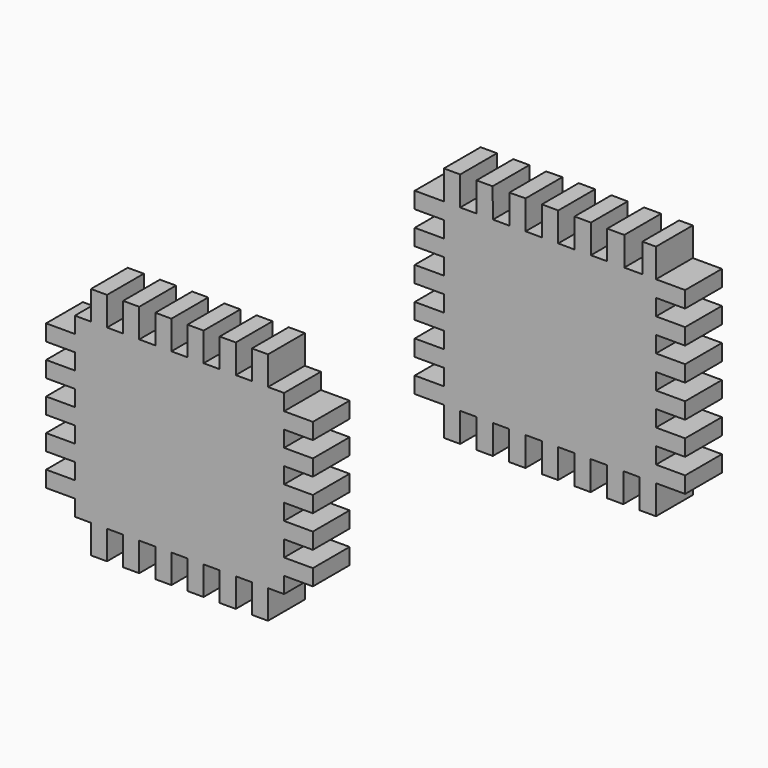
from build123d import *

# Parameters (mm, degrees)
F1_DEPTH = 10.16
F3_DEPTH = 10.16


with BuildPart() as f1:
    # F0 (on Front) → F1 (new body)
    with BuildSketch(Plane.XZ):
        Polygon((-7.246204, 25.127795), (-10.850636, 25.127795), (-10.942347, 31.578782), (-14.490504, 31.578782), (-14.490504, 25.127795), (-18.094936, 25.127795), (-18.094936, 31.55316), (-21.699369, 31.55316), (-21.699369, 25.127795), (-28.135855, 25.127795), (-28.135855, 21.523363), (-21.699369, 21.523363), (-21.699369, 17.91893), (-28.135855, 17.91893), (-28.135855, 14.314498), (-21.699369, 14.314498), (-21.699369, 10.710065), (-28.135855, 10.710065), (-28.135855, 7.105633), (-21.699369, 7.105633), (-21.699369, 3.5012), (-28.135855, 3.5012), (-28.135855, 0), (-21.699369, 0), (-21.699369, -3.604432), (-28.135855, -3.604432), (-28.135855, -7.208865), (-21.699369, -7.208865), (-21.699369, -10.813297), (-28.135855, -10.813297), (-28.135855, -14.41773), (-21.699369, -14.41773), (-21.699369, -20.854216), (-18.094936, -20.854216), (-18.094936, -14.41773), (-14.490504, -14.41773), (-14.490504, -20.854216), (-10.886071, -20.854216), (-10.886071, -14.41773), (-7.281639, -14.41773), (-7.281639, -20.854216), (-3.677206, -20.854216), (-3.677206, -14.41773), (-0.072774, -14.41773), (-0.072774, -20.854216), (3.531659, -20.854216), (3.531659, -14.41773), (7.136091, -14.41773), (7.136091, -20.854216), (10.740524, -20.854216), (10.740524, -14.41773), (14.344956, -14.41773), (14.344956, -20.854216), (17.949388, -20.854216), (17.949388, -14.41773), (21.553821, -14.41773), (21.553821, -20.854216), (25.158253, -20.854216), (25.158253, -14.41773), (31.59474, -14.41773), (31.59474, -10.813297), (25.158253, -10.813297), (25.158253, -7.208865), (31.59474, -7.208865), (31.59474, -3.604432), (25.158253, -3.604432), (25.158253, 0), (31.59474, 0), (31.59474, 3.604432), (25.158253, 3.604432), (25.158253, 7.208865), (31.59474, 7.208865), (31.59474, 10.813297), (25.158253, 10.813297), (25.158253, 14.41773), (31.59474, 14.41773), (31.59474, 18.022162), (25.158253, 18.022162), (25.158253, 21.626595), (31.59474, 21.626595), (31.59474, 25.231027), (25.158253, 25.231027), (25.158253, 31.581027), (22.141514, 31.581027), (22.141514, 25.231027), (18.153843, 25.231027), (18.153843, 31.581027), (14.380122, 31.581027), (14.380122, 25.231027), (10.77569, 25.231027), (10.77569, 31.581027), (7.171323, 31.602797), (7.171323, 25.162738), (3.566995, 25.190168), (3.566995, 31.595162), (-0.037368, 31.617542), (-0.037368, 25.164533), (-3.641693, 25.192317), (-3.641693, 31.604404), (-7.246204, 31.55316), align=None)
    extrude(amount=F1_DEPTH)


with BuildPart() as f3:
    # F2 (on Front) → F3 (new body)
    with BuildSketch(Plane.XZ):
        Polygon((-103.22319, -62.705836), (-99.66719, -62.705836), (-99.66719, -69.055836), (-96.11119, -69.055836), (-96.11119, -62.705836), (-92.55519, -62.705836), (-92.55519, -69.055836), (-88.99919, -69.055836), (-88.99919, -62.705836), (-85.44319, -62.705836), (-85.44319, -69.055836), (-81.88719, -69.055836), (-81.88719, -62.705836), (-78.33119, -62.705836), (-78.33119, -69.055836), (-74.77519, -69.055836), (-74.77519, -62.705836), (-71.21919, -62.705836), (-71.21919, -69.055836), (-67.66319, -69.055836), (-67.66319, -62.705836), (-64.10719, -62.705836), (-64.10719, -69.055836), (-60.55119, -69.055836), (-60.55119, -62.705836), (-56.99519, -62.705836), (-56.99519, -59.149836), (-50.64519, -59.149836), (-50.64519, -55.593836), (-56.99519, -55.593836), (-56.99519, -52.037836), (-50.64519, -52.037836), (-50.64519, -48.481836), (-56.99519, -48.481836), (-56.99519, -44.925836), (-50.64519, -44.925836), (-50.64519, -41.369836), (-56.99519, -41.369836), (-56.99519, -37.813836), (-50.64519, -37.813836), (-50.64519, -34.257836), (-56.99519, -34.257836), (-56.99519, -30.701836), (-50.64519, -30.701836), (-50.64519, -27.145836), (-56.99519, -27.145836), (-56.99519, -23.589836), (-60.55119, -23.589836), (-60.55119, -17.239836), (-64.10719, -17.239836), (-64.10719, -23.589836), (-67.66319, -23.589836), (-67.66319, -17.239836), (-71.21919, -17.239836), (-71.21919, -23.589836), (-74.77519, -23.589836), (-74.77519, -17.239836), (-78.33119, -17.239836), (-78.33119, -23.589836), (-81.88719, -23.589836), (-81.88719, -17.239836), (-85.44319, -17.239836), (-85.44319, -23.589836), (-88.99919, -23.589836), (-88.99919, -17.239836), (-92.55519, -17.239836), (-92.55519, -23.589836), (-96.11119, -23.589836), (-96.11119, -17.239836), (-99.66719, -17.239836), (-99.66719, -23.589836), (-103.22319, -23.589836), (-103.22319, -27.145836), (-109.57319, -27.145836), (-109.57319, -30.701836), (-103.22319, -30.701836), (-103.22319, -34.257836), (-109.57319, -34.257836), (-109.57319, -37.813836), (-103.22319, -37.813836), (-103.22319, -41.369836), (-109.57319, -41.369836), (-109.57319, -44.925836), (-103.22319, -44.925836), (-103.22319, -48.481836), (-109.57319, -48.481836), (-109.57319, -52.037836), (-103.22319, -52.037836), (-103.22319, -55.593836), (-109.57319, -55.593836), (-109.57319, -59.154585), (-103.22319, -59.154585), align=None)
    extrude(amount=F3_DEPTH)


solid = Compound([f1.part, f3.part])
